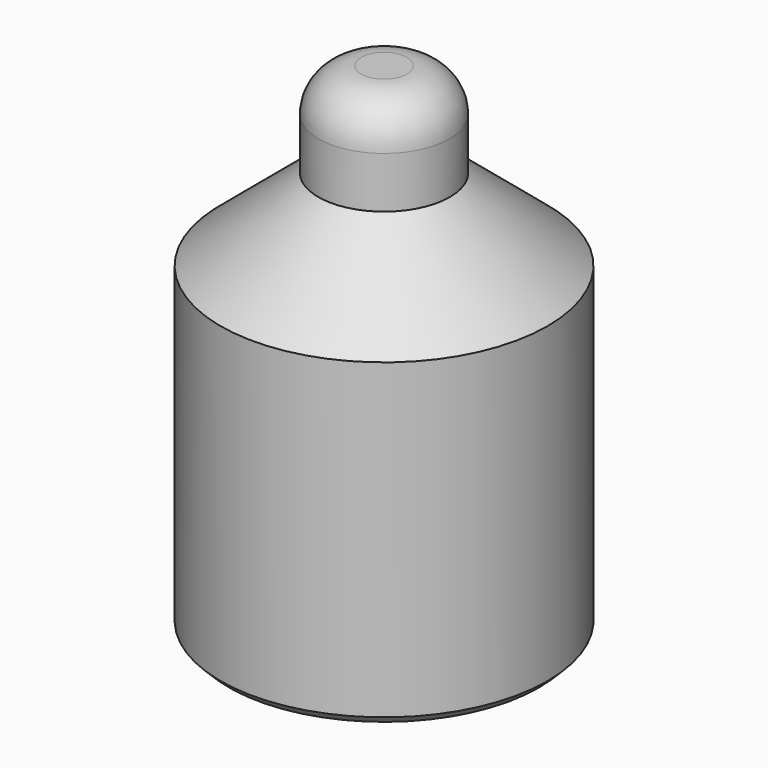
from build123d import *

# Parameters (mm, degrees)
F2_R    = 5.08
F3_SIZE = 1


with BuildPart() as f1:
    # F0 (on Front) → F1 (revolve)
    with BuildSketch(Plane.XZ):
        Polygon((7.780209, 58.772128), (0, 58.772128), (0, 0), (19.34539, 0), (19.34539, 37.954811), (7.780209, 47.627505), align=None)
    revolve(axis=Axis((0, 0, 29.386064), (0, 0, 1)))

    # F2
    f2_edges = [f1.edges().sort_by_distance(p)[0] for p in [
        (-7.780209, 0, 58.772128),
    ]]
    fillet(f2_edges, radius=F2_R)

    # F3
    f3_edges = [f1.edges().sort_by_distance(p)[0] for p in [
        (-19.34539, 0, 0),
    ]]
    chamfer(f3_edges, length=F3_SIZE)


solid = f1.part
